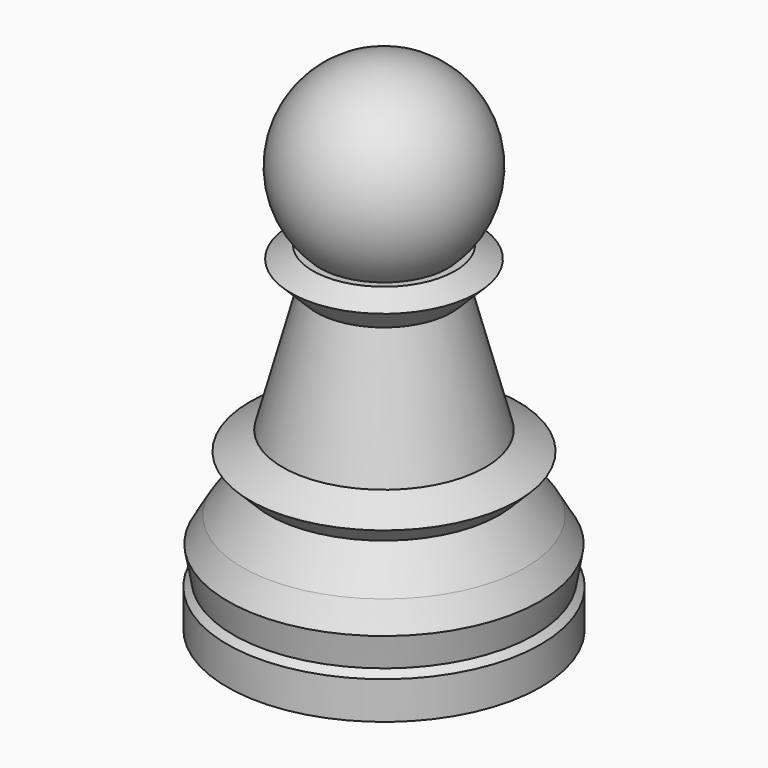
from build123d import *

# Parameters (mm, degrees)
F0_R      = 12.5
F1_DEPTH  = 3
F1_FACE_R = 12.5
F2_DEPTH  = 0.5
F2_TAPER  = 45
F2_FACE_R = 12
F3_DEPTH  = 2.5
F3_TAPER  = -10
F3_FACE_R = 12.4408174518
F4_DEPTH  = 2
F4_TAPER  = 30
F4_FACE_R = 11.2861169134
F5_DEPTH  = 3
F5_TAPER  = 35
F5_FACE_R = 9.1854942988
F6_DEPTH  = 1.5
F6_TAPER  = -45
F6_FACE_R = 10.6854942988
F7_DEPTH  = 1.5
F7_TAPER  = 60
F7_FACE_R = 8.0874180874
F8_DEPTH  = 10
F8_TAPER  = 15
F8_FACE_R = 5.4079261631
F9_DEPTH  = 2
F9_TAPER  = -45
F9_FACE_R = 7.4079261631
F10_DEPTH = 1
F10_TAPER = 60


with BuildPart() as f1:
    # F0 (on Top) → F1 (new body)
    with BuildSketch(Plane.XY):
        Circle(F0_R)
    extrude(amount=F1_DEPTH)

    # F1_face (on face) → F2 (join)
    with BuildSketch(Plane.XY.offset(3)):
        Circle(F1_FACE_R)
    extrude(amount=F2_DEPTH, taper=F2_TAPER)

    # F2_face (on face) → F3 (join)
    with BuildSketch(Plane.XY.offset(3.5)):
        Circle(F2_FACE_R)
    extrude(amount=F3_DEPTH, taper=F3_TAPER)

    # F3_face (on face) → F4 (join)
    with BuildSketch(Plane.XY.offset(6)):
        Circle(F3_FACE_R)
    extrude(amount=F4_DEPTH, taper=F4_TAPER)

    # F4_face (on face) → F5 (join)
    with BuildSketch(Plane.XY.offset(8)):
        Circle(F4_FACE_R)
    extrude(amount=F5_DEPTH, taper=F5_TAPER)

    # F5_face (on face) → F6 (join)
    with BuildSketch(Plane.XY.offset(11)):
        Circle(F5_FACE_R)
    extrude(amount=F6_DEPTH, taper=F6_TAPER)

    # F6_face (on face) → F7 (join)
    with BuildSketch(Plane.XY.offset(12.5)):
        Circle(F6_FACE_R)
    extrude(amount=F7_DEPTH, taper=F7_TAPER)

    # F7_face (on face) → F8 (join)
    with BuildSketch(Plane.XY.offset(14)):
        Circle(F7_FACE_R)
    extrude(amount=F8_DEPTH, taper=F8_TAPER)

    # F8_face (on face) → F9 (join)
    with BuildSketch(Plane.XY.offset(24)):
        Circle(F8_FACE_R)
    extrude(amount=F9_DEPTH, taper=F9_TAPER)

    # F9_face (on face) → F10 (join)
    with BuildSketch(Plane.XY.offset(26)):
        Circle(F9_FACE_R)
    extrude(amount=F10_DEPTH, taper=F10_TAPER)

    # F11 (on Front) → F12 (revolve)
    with BuildSketch(Plane.XZ):
        with BuildLine():
            ThreePointArc((0, 40), (-7.5, 32.5), (0, 25))
            Line((0, 25), (0, 40))
        make_face()
    revolve(axis=Axis((0, 0, 21.0038799897), (0, 0, 1)))


solid = f1.part
